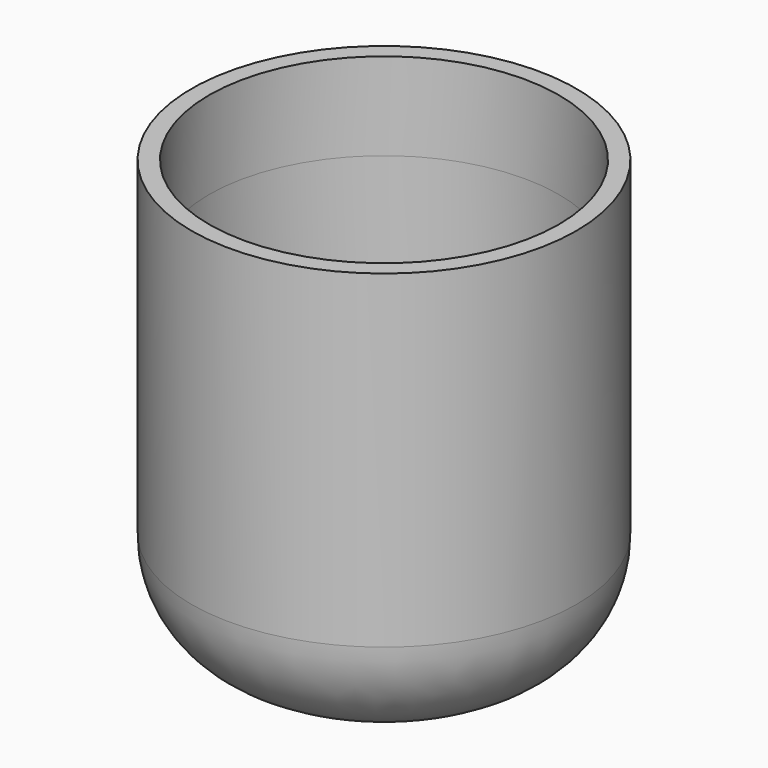
from build123d import *

# Parameters (mm, degrees)
F0_R     = 55
F1_DEPTH = 100
F2_R     = 31
F3_R     = 50
F4_DEPTH = 70
F5_DEPTH = 25


with BuildPart() as f1:
    # F0 (on Top) → F1 (new body)
    with BuildSketch(Plane.XY):
        with Locations((-64.8039355874, -38.4441465139)):
            Circle(F0_R)
    extrude(amount=F1_DEPTH)

    # F2
    f2_edges = [f1.edges().sort_by_distance(p)[0] for p in [
        (-119.803936, -38.444147, 0),
    ]]
    fillet(f2_edges, radius=F2_R)

    # F3 (on face) → F4 (cut)
    with BuildSketch(Plane.XY.offset(100)):
        with Locations((-64.8039355874, -38.4441465139)):
            Circle(F3_R)
    extrude(amount=-F4_DEPTH, mode=Mode.SUBTRACT)

    # F5 (add): faces of the model
    f5_faces = [f1.faces().sort_by_distance(p)[0] for p in [
        (-118.2483006688, -38.4441465139, 100),
        (-64.8039355874, -38.4441465139, 30),
    ]]
    extrude(f5_faces, amount=F5_DEPTH)


solid = f1.part
